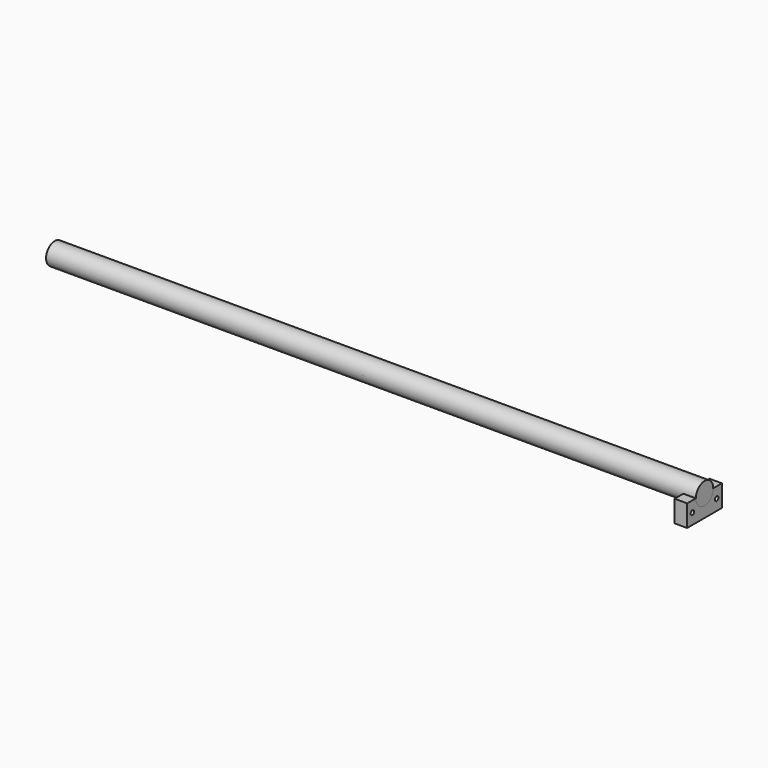
from build123d import *

# Parameters (mm, degrees)
F0_R     = 3.175
F1_DEPTH = 9.144
F3_DEPTH = 830.2625
F5_DEPTH = 949.579


with BuildPart() as f1:
    # F0 (on Right) → F1 (new body, symmetric)
    with BuildSketch(Plane.YZ):
        with BuildLine():
            Line((15.875, 0), (0, 0))
            Line((0, 0), (0, -31.75))
            Line((0, -31.75), (63.5, -31.75))
            Line((63.5, -31.75), (63.5, 0))
            Line((63.5, 0), (47.625, 0))
            ThreePointArc((47.625, 0), (31.75, -15.875), (15.875, 0))
        make_face()
        with Locations((9.525, -15.875)):
            Circle(F0_R, mode=Mode.SUBTRACT)
        with Locations((53.975, -15.875)):
            Circle(F0_R, mode=Mode.SUBTRACT)
    extrude(amount=F1_DEPTH, both=True)


with BuildPart() as f3:
    # F2 (on face) → F3 (new body)
    with BuildSketch(Plane.YZ.offset(9.144)):
        with BuildLine():
            ThreePointArc((15.875, 0), (31.75, -15.875), (47.625, 0))
            ThreePointArc((47.625, 0), (31.75, 15.875), (15.875, 0))
        make_face()
    extrude(amount=-F3_DEPTH)


with BuildPart() as f5:
    # F4 (on face) → F5 (new body)
    with BuildSketch(Plane.YZ.offset(9.144)):
        with BuildLine():
            ThreePointArc((15.875, 0), (31.75, -15.875), (47.625, 0))
            ThreePointArc((47.625, 0), (31.75, 15.875), (15.875, 0))
        make_face()
    extrude(amount=-F5_DEPTH)


solid = Compound([f1.part, f3.part, f5.part])
